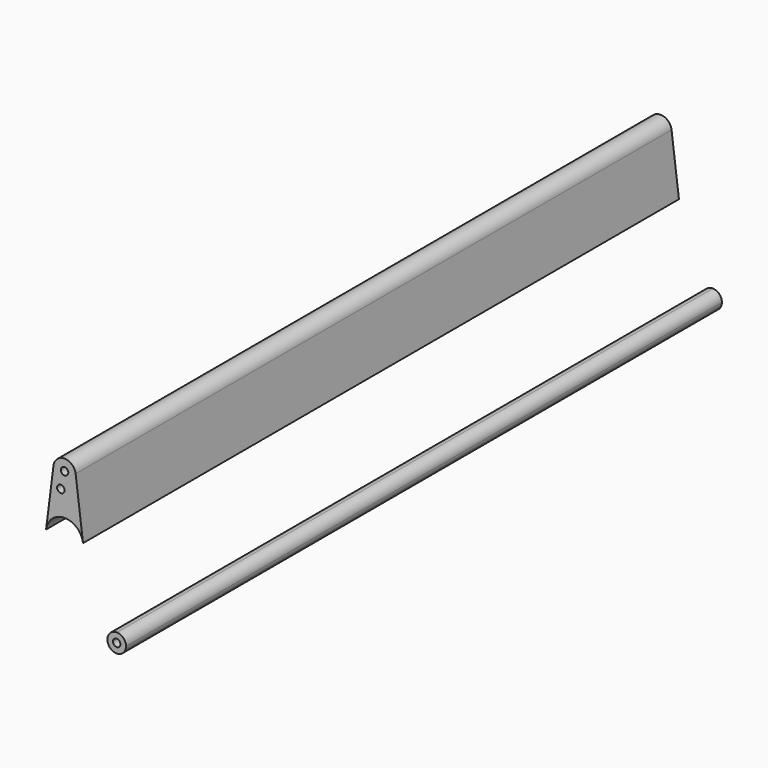
from build123d import *

# Parameters (mm, degrees)
F0_R     = 0.125
F1_DEPTH = 25


with BuildPart() as f1:
    # F0 (on Front) → F1 (new body)
    with BuildSketch(Plane.XZ):
        with BuildLine():
            ThreePointArc((-0.372059, 4.546875), (-0.023484, 4.125736), (0.375, 4.5))
            ThreePointArc((0.375, 4.5), (0.374264, 4.523484), (0.372059, 4.546875))
            ThreePointArc((0.372059, 4.546875), (0, 4.875), (-0.372059, 4.546875))
        make_face()
        with Locations((0, 4.5)):
            Circle(F0_R, mode=Mode.SUBTRACT)
        with BuildLine():
            ThreePointArc((0.372059, 4.546875), (0.374264, 4.523484), (0.375, 4.5))
            ThreePointArc((0.375, 4.5), (-0.023484, 4.125736), (-0.372059, 4.546875))
            Line((-0.372059, 4.546875), (-0.620098, 2.578125))
            ThreePointArc((-0.620098, 2.578125), (0, 3.125), (0.620098, 2.578125))
            Line((0.620098, 2.578125), (0.372059, 4.546875))
        make_face()
        with Locations((-0.125, 3.938)):
            Circle(F0_R, mode=Mode.SUBTRACT)
        with BuildLine():
            ThreePointArc((1.761161, 0.312301), (1.4375, 0), (1.761161, -0.312301))
            ThreePointArc((1.761161, -0.312301), (1.974882, -0.216989), (2.0625, 0))
            ThreePointArc((2.0625, 0), (1.974882, 0.216989), (1.761161, 0.312301))
        make_face()
        with Locations((1.75, 0)):
            Circle(F0_R, mode=Mode.SUBTRACT)
    extrude(amount=F1_DEPTH)


solid = f1.part
